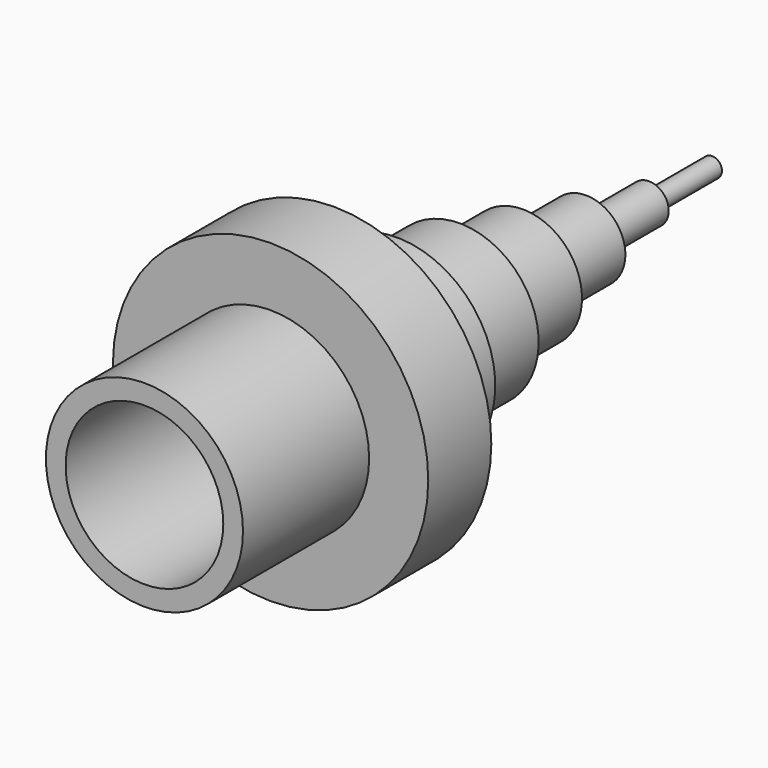
from build123d import *

# Parameters (mm, degrees)
F0_R      = 10.16
F1_DEPTH  = 5.08
F2_R      = 6.35
F2_R_2    = 5.08
F3_DEPTH  = 10.16
F4_R      = 6.35
F5_DEPTH  = 5.08
F6_R      = 5.08
F7_DEPTH  = 5.08
F8_R      = 3.81
F9_DEPTH  = 5.08
F10_R     = 2.54
F11_DEPTH = 5.08
F12_R     = 1.27
F13_DEPTH = 5.08
F14_R     = 0.635
F15_DEPTH = 5.08


with BuildPart() as f1:
    # F0 (on Front) → F1 (new body)
    with BuildSketch(Plane.XZ):
        Circle(F0_R)
    extrude(amount=F1_DEPTH)

    # F2 (on face) → F3 (join)
    with BuildSketch(Plane.XZ.offset(5.08)):
        Circle(F2_R)
        Circle(F2_R_2, mode=Mode.SUBTRACT)
    extrude(amount=F3_DEPTH)

    # F4 (on face) → F5 (join)
    with BuildSketch(Plane(origin=(0, 0, 0), x_dir=(-1, 0, 0), z_dir=(0, 1, 0))):
        Circle(F4_R)
    extrude(amount=F5_DEPTH)

    # F6 (on face) → F7 (join)
    with BuildSketch(Plane(origin=(0, 5.08, 0), x_dir=(-1, 0, 0), z_dir=(0, 1, 0))):
        Circle(F6_R)
    extrude(amount=F7_DEPTH)

    # F8 (on face) → F9 (join)
    with BuildSketch(Plane(origin=(0, 10.16, 0), x_dir=(-1, 0, 0), z_dir=(0, 1, 0))):
        Circle(F8_R)
    extrude(amount=F9_DEPTH)

    # F10 (on face) → F11 (join)
    with BuildSketch(Plane(origin=(0, 15.24, 0), x_dir=(-1, 0, 0), z_dir=(0, 1, 0))):
        Circle(F10_R)
    extrude(amount=F11_DEPTH)

    # F12 (on face) → F13 (join)
    with BuildSketch(Plane(origin=(0, 20.32, 0), x_dir=(-1, 0, 0), z_dir=(0, 1, 0))):
        Circle(F12_R)
    extrude(amount=F13_DEPTH)

    # F14 (on face) → F15 (join)
    with BuildSketch(Plane(origin=(0, 25.4, 0), x_dir=(-1, 0, 0), z_dir=(0, 1, 0))):
        Circle(F14_R)
    extrude(amount=F15_DEPTH)


solid = f1.part
